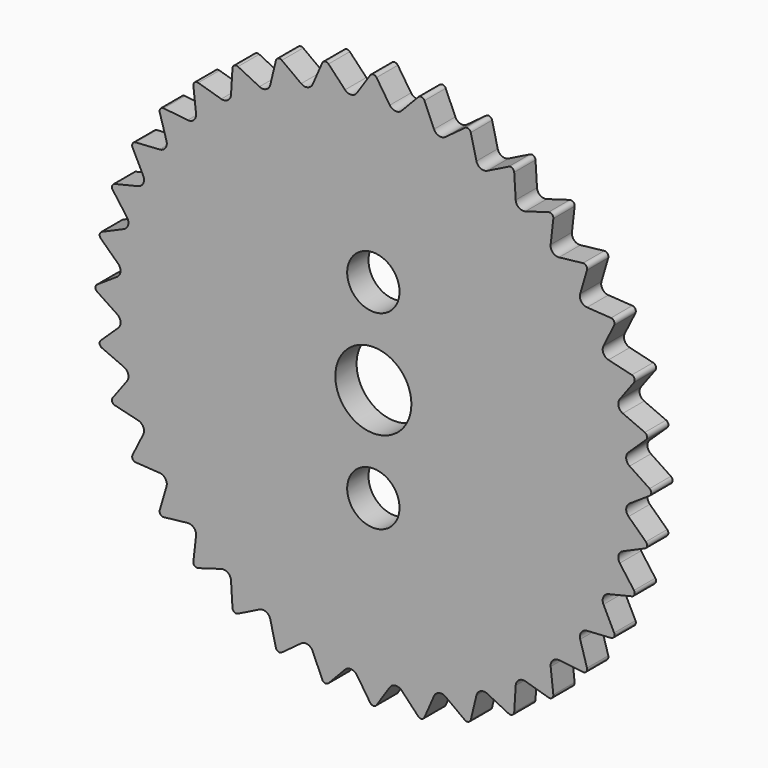
from build123d import *

# Parameters (mm, degrees)
F0_R     = 14
F0_R_2   = 2.75
F0_R_3   = 4
F1_DEPTH = 2.8


with BuildPart() as f1:
    # F0 (on Front) → F1 (new body)
    with BuildSketch(Plane.XZ):
        with BuildLine():
            Line((-0.3332228444, 29.0481919981), (-1.729675552, 26.9452415104))
            ThreePointArc((-1.729675552, 26.9452415104), (-2.3263966465, 26.5908353469), (-2.9755941913, 26.8362377538))
            Line((-2.9755941913, 26.8362377538), (-4.7160051644, 28.6647482303))
            ThreePointArc((-4.7160051644, 28.6647482303), (-5.0752009107, 28.7828946558), (-5.3723260456, 28.549021151))
            Line((-5.3723260456, 28.549021151), (-6.3823899789, 26.2355277386))
            ThreePointArc((-6.3823899789, 26.2355277386), (-6.9085035547, 25.7828862705), (-7.5904520107, 25.9118284928))
            Line((-7.5904520107, 25.9118284928), (-9.6219397426, 27.4103405927))
            ThreePointArc((-9.6219397426, 27.4103405927), (-9.9961944099, 27.4643184217), (-10.2481938384, 27.1824027428))
            Line((-10.2481938384, 27.1824027428), (-10.8411787159, 24.7286607324))
            ThreePointArc((-10.8411787159, 24.7286607324), (-11.2806990783, 24.1915372415), (-11.9746777868, 24.2001014351))
            Line((-11.9746777868, 24.2001014351), (-14.2355165507, 25.3230836265))
            ThreePointArc((-14.2355165507, 25.3230836265), (-14.6134586003, 25.31125277), (-14.8126754474, 24.9898607821))
            Line((-14.8126754474, 24.9898607821), (-14.9705637235, 22.4704258831))
            ThreePointArc((-14.9705637235, 22.4704258831), (-15.3101362686, 21.865140595), (-15.9950590379, 21.7530665411))
            Line((-15.9950590379, 21.7530665411), (-18.4165543919, 22.4663975784))
            ThreePointArc((-18.4165543919, 22.4663975784), (-18.7867002459, 22.389117511), (-18.9270814084, 22.0380145471))
            Line((-18.9270814084, 22.0380145471), (-18.6450757279, 19.5294385139))
            ThreePointArc((-18.6450757279, 19.5294385139), (-18.8743827157, 18.8743827157), (-19.5294385139, 18.6450757279))
            Line((-19.5294385139, 18.6450757279), (-22.0380145471, 18.9270814084))
            ThreePointArc((-22.0380145471, 18.9270814084), (-22.389117511, 18.7867002459), (-22.4663975784, 18.4165543919))
            Line((-22.4663975784, 18.4165543919), (-21.7530665411, 15.9950590379))
            ThreePointArc((-21.7530665411, 15.9950590379), (-21.865140595, 15.3101362686), (-22.4704258831, 14.9705637235))
            Line((-22.4704258831, 14.9705637235), (-24.9898607821, 14.8126754474))
            ThreePointArc((-24.9898607821, 14.8126754474), (-25.31125277, 14.6134586003), (-25.3230836265, 14.2355165507))
            Line((-25.3230836265, 14.2355165507), (-24.2001014351, 11.9746777868))
            ThreePointArc((-24.2001014351, 11.9746777868), (-24.1915372415, 11.2806990783), (-24.7286607324, 10.8411787159))
            Line((-24.7286607324, 10.8411787159), (-27.1824027428, 10.2481938384))
            ThreePointArc((-27.1824027428, 10.2481938384), (-27.4643184217, 9.9961944099), (-27.4103405927, 9.6219397426))
            Line((-27.4103405927, 9.6219397426), (-25.9118284928, 7.5904520107))
            ThreePointArc((-25.9118284928, 7.5904520107), (-25.7828862705, 6.9085035547), (-26.2355277386, 6.3823899789))
            Line((-26.2355277386, 6.3823899789), (-28.549021151, 5.3723260456))
            ThreePointArc((-28.549021151, 5.3723260456), (-28.7828946558, 5.0752009107), (-28.6647482303, 4.7160051644))
            Line((-28.6647482303, 4.7160051644), (-26.8362377538, 2.9755941913))
            ThreePointArc((-26.8362377538, 2.9755941913), (-26.5908353469, 2.3263966465), (-26.9452415104, 1.729675552))
            Line((-26.9452415104, 1.729675552), (-29.0481919981, 0.3332228444))
            ThreePointArc((-29.0481919981, 0.3332228444), (-29.2269172006, 0), (-29.0481919981, -0.3332228444))
            Line((-29.0481919981, -0.3332228444), (-26.9452415104, -1.729675552))
            ThreePointArc((-26.9452415104, -1.729675552), (-26.5908353469, -2.3263966465), (-26.8362377538, -2.9755941913))
            Line((-26.8362377538, -2.9755941913), (-28.6647482303, -4.7160051644))
            ThreePointArc((-28.6647482303, -4.7160051644), (-28.7828946558, -5.0752009107), (-28.549021151, -5.3723260456))
            Line((-28.549021151, -5.3723260456), (-26.2355277386, -6.3823899789))
            ThreePointArc((-26.2355277386, -6.3823899789), (-25.7828862705, -6.9085035547), (-25.9118284928, -7.5904520107))
            Line((-25.9118284928, -7.5904520107), (-27.4103405927, -9.6219397426))
            ThreePointArc((-27.4103405927, -9.6219397426), (-27.4643184217, -9.9961944099), (-27.1824027428, -10.2481938384))
            Line((-27.1824027428, -10.2481938384), (-24.7286607324, -10.8411787159))
            ThreePointArc((-24.7286607324, -10.8411787159), (-24.1915372415, -11.2806990783), (-24.2001014351, -11.9746777868))
            Line((-24.2001014351, -11.9746777868), (-25.3230836265, -14.2355165507))
            ThreePointArc((-25.3230836265, -14.2355165507), (-25.31125277, -14.6134586003), (-24.9898607821, -14.8126754474))
            Line((-24.9898607821, -14.8126754474), (-22.4704258831, -14.9705637235))
            ThreePointArc((-22.4704258831, -14.9705637235), (-21.865140595, -15.3101362686), (-21.7530665411, -15.9950590379))
            Line((-21.7530665411, -15.9950590379), (-22.4663975784, -18.4165543919))
            ThreePointArc((-22.4663975784, -18.4165543919), (-22.389117511, -18.7867002459), (-22.0380145471, -18.9270814084))
            Line((-22.0380145471, -18.9270814084), (-19.5294385139, -18.6450757279))
            ThreePointArc((-19.5294385139, -18.6450757279), (-18.8743827157, -18.8743827157), (-18.6450757279, -19.5294385139))
            Line((-18.6450757279, -19.5294385139), (-18.9270814084, -22.0380145471))
            ThreePointArc((-18.9270814084, -22.0380145471), (-18.7867002459, -22.389117511), (-18.4165543919, -22.4663975784))
            Line((-18.4165543919, -22.4663975784), (-15.9950590379, -21.7530665411))
            ThreePointArc((-15.9950590379, -21.7530665411), (-15.3101362686, -21.865140595), (-14.9705637235, -22.4704258831))
            Line((-14.9705637235, -22.4704258831), (-14.8126754474, -24.9898607821))
            ThreePointArc((-14.8126754474, -24.9898607821), (-14.6134586003, -25.31125277), (-14.2355165507, -25.3230836265))
            Line((-14.2355165507, -25.3230836265), (-11.9746777868, -24.2001014351))
            ThreePointArc((-11.9746777868, -24.2001014351), (-11.2806990783, -24.1915372415), (-10.8411787159, -24.7286607324))
            Line((-10.8411787159, -24.7286607324), (-10.2481938384, -27.1824027428))
            ThreePointArc((-10.2481938384, -27.1824027428), (-9.9961944099, -27.4643184217), (-9.6219397426, -27.4103405927))
            Line((-9.6219397426, -27.4103405927), (-7.5904520107, -25.9118284928))
            ThreePointArc((-7.5904520107, -25.9118284928), (-6.9085035547, -25.7828862705), (-6.3823899789, -26.2355277386))
            Line((-6.3823899789, -26.2355277386), (-5.3723260456, -28.549021151))
            ThreePointArc((-5.3723260456, -28.549021151), (-5.0752009107, -28.7828946558), (-4.7160051644, -28.6647482303))
            Line((-4.7160051644, -28.6647482303), (-2.9755941913, -26.8362377538))
            ThreePointArc((-2.9755941913, -26.8362377538), (-2.3263966465, -26.5908353469), (-1.729675552, -26.9452415104))
            Line((-1.729675552, -26.9452415104), (-0.3332228444, -29.0481919981))
            ThreePointArc((-0.3332228444, -29.0481919981), (0, -29.2269172006), (0.3332228444, -29.0481919981))
            Line((0.3332228444, -29.0481919981), (1.729675552, -26.9452415104))
            ThreePointArc((1.729675552, -26.9452415104), (2.3263966465, -26.5908353469), (2.9755941913, -26.8362377538))
            Line((2.9755941913, -26.8362377538), (4.7160051644, -28.6647482303))
            ThreePointArc((4.7160051644, -28.6647482303), (5.0752009107, -28.7828946558), (5.3723260456, -28.549021151))
            Line((5.3723260456, -28.549021151), (6.3823899789, -26.2355277386))
            ThreePointArc((6.3823899789, -26.2355277386), (6.9085035547, -25.7828862705), (7.5904520107, -25.9118284928))
            Line((7.5904520107, -25.9118284928), (9.6219397426, -27.4103405927))
            ThreePointArc((9.6219397426, -27.4103405927), (9.9961944099, -27.4643184217), (10.2481938384, -27.1824027428))
            Line((10.2481938384, -27.1824027428), (10.8411787159, -24.7286607324))
            ThreePointArc((10.8411787159, -24.7286607324), (11.2806990783, -24.1915372415), (11.9746777868, -24.2001014351))
            Line((11.9746777868, -24.2001014351), (14.2355165507, -25.3230836265))
            ThreePointArc((14.2355165507, -25.3230836265), (14.6134586003, -25.31125277), (14.8126754474, -24.9898607821))
            Line((14.8126754474, -24.9898607821), (14.9705637235, -22.4704258831))
            ThreePointArc((14.9705637235, -22.4704258831), (15.3101362686, -21.865140595), (15.9950590379, -21.7530665411))
            Line((15.9950590379, -21.7530665411), (18.4165543919, -22.4663975784))
            ThreePointArc((18.4165543919, -22.4663975784), (18.7867002459, -22.389117511), (18.9270814084, -22.0380145471))
            Line((18.9270814084, -22.0380145471), (18.6450757279, -19.5294385139))
            ThreePointArc((18.6450757279, -19.5294385139), (18.8743827157, -18.8743827157), (19.5294385139, -18.6450757279))
            Line((19.5294385139, -18.6450757279), (22.0380145471, -18.9270814084))
            ThreePointArc((22.0380145471, -18.9270814084), (22.389117511, -18.7867002459), (22.4663975784, -18.4165543919))
            Line((22.4663975784, -18.4165543919), (21.7530665411, -15.9950590379))
            ThreePointArc((21.7530665411, -15.9950590379), (21.865140595, -15.3101362686), (22.4704258831, -14.9705637235))
            Line((22.4704258831, -14.9705637235), (24.9898607821, -14.8126754474))
            ThreePointArc((24.9898607821, -14.8126754474), (25.31125277, -14.6134586003), (25.3230836265, -14.2355165507))
            Line((25.3230836265, -14.2355165507), (24.2001014351, -11.9746777868))
            ThreePointArc((24.2001014351, -11.9746777868), (24.1915372415, -11.2806990783), (24.7286607324, -10.8411787159))
            Line((24.7286607324, -10.8411787159), (27.1824027428, -10.2481938384))
            ThreePointArc((27.1824027428, -10.2481938384), (27.4643184217, -9.9961944099), (27.4103405927, -9.6219397426))
            Line((27.4103405927, -9.6219397426), (25.9118284928, -7.5904520107))
            ThreePointArc((25.9118284928, -7.5904520107), (25.7828862705, -6.9085035547), (26.2355277386, -6.3823899789))
            Line((26.2355277386, -6.3823899789), (28.549021151, -5.3723260456))
            ThreePointArc((28.549021151, -5.3723260456), (28.7828946558, -5.0752009107), (28.6647482303, -4.7160051644))
            Line((28.6647482303, -4.7160051644), (26.8362377538, -2.9755941913))
            ThreePointArc((26.8362377538, -2.9755941913), (26.5908353469, -2.3263966465), (26.9452415104, -1.729675552))
            Line((26.9452415104, -1.729675552), (29.0481919981, -0.3332228444))
            ThreePointArc((29.0481919981, -0.3332228444), (29.2269172006, 0), (29.0481919981, 0.3332228444))
            Line((29.0481919981, 0.3332228444), (26.9452415104, 1.729675552))
            ThreePointArc((26.9452415104, 1.729675552), (26.5908353469, 2.3263966465), (26.8362377538, 2.9755941913))
            Line((26.8362377538, 2.9755941913), (28.6647482303, 4.7160051644))
            ThreePointArc((28.6647482303, 4.7160051644), (28.7828946558, 5.0752009107), (28.549021151, 5.3723260456))
            Line((28.549021151, 5.3723260456), (26.2355277386, 6.3823899789))
            ThreePointArc((26.2355277386, 6.3823899789), (25.7828862705, 6.9085035547), (25.9118284928, 7.5904520107))
            Line((25.9118284928, 7.5904520107), (27.4103405927, 9.6219397426))
            ThreePointArc((27.4103405927, 9.6219397426), (27.4643184217, 9.9961944099), (27.1824027428, 10.2481938384))
            Line((27.1824027428, 10.2481938384), (24.7286607324, 10.8411787159))
            ThreePointArc((24.7286607324, 10.8411787159), (24.1915372415, 11.2806990783), (24.2001014351, 11.9746777868))
            Line((24.2001014351, 11.9746777868), (25.3230836265, 14.2355165507))
            ThreePointArc((25.3230836265, 14.2355165507), (25.31125277, 14.6134586003), (24.9898607821, 14.8126754474))
            Line((24.9898607821, 14.8126754474), (22.4704258831, 14.9705637235))
            ThreePointArc((22.4704258831, 14.9705637235), (21.865140595, 15.3101362686), (21.7530665411, 15.9950590379))
            Line((21.7530665411, 15.9950590379), (22.4663975784, 18.4165543919))
            ThreePointArc((22.4663975784, 18.4165543919), (22.389117511, 18.7867002459), (22.0380145471, 18.9270814084))
            Line((22.0380145471, 18.9270814084), (19.5294385139, 18.6450757279))
            ThreePointArc((19.5294385139, 18.6450757279), (18.8743827157, 18.8743827157), (18.6450757279, 19.5294385139))
            Line((18.6450757279, 19.5294385139), (18.9270814084, 22.0380145471))
            ThreePointArc((18.9270814084, 22.0380145471), (18.7867002459, 22.389117511), (18.4165543919, 22.4663975784))
            Line((18.4165543919, 22.4663975784), (15.9950590379, 21.7530665411))
            ThreePointArc((15.9950590379, 21.7530665411), (15.3101362686, 21.865140595), (14.9705637235, 22.4704258831))
            Line((14.9705637235, 22.4704258831), (14.8126754474, 24.9898607821))
            ThreePointArc((14.8126754474, 24.9898607821), (14.6134586003, 25.31125277), (14.2355165507, 25.3230836265))
            Line((14.2355165507, 25.3230836265), (11.9746777868, 24.2001014351))
            ThreePointArc((11.9746777868, 24.2001014351), (11.2806990783, 24.1915372415), (10.8411787159, 24.7286607324))
            Line((10.8411787159, 24.7286607324), (10.2481938384, 27.1824027428))
            ThreePointArc((10.2481938384, 27.1824027428), (9.9961944099, 27.4643184217), (9.6219397426, 27.4103405927))
            Line((9.6219397426, 27.4103405927), (7.5904520107, 25.9118284928))
            ThreePointArc((7.5904520107, 25.9118284928), (6.9085035547, 25.7828862705), (6.3823899789, 26.2355277386))
            Line((6.3823899789, 26.2355277386), (5.3723260456, 28.549021151))
            ThreePointArc((5.3723260456, 28.549021151), (5.0752009107, 28.7828946558), (4.7160051644, 28.6647482303))
            Line((4.7160051644, 28.6647482303), (2.9755941913, 26.8362377538))
            ThreePointArc((2.9755941913, 26.8362377538), (2.3263966465, 26.5908353469), (1.729675552, 26.9452415104))
            Line((1.729675552, 26.9452415104), (0.3332228444, 29.0481919981))
            ThreePointArc((0.3332228444, 29.0481919981), (0, 29.2269172006), (-0.3332228444, 29.0481919981))
        make_face()
        Circle(F0_R, mode=Mode.SUBTRACT)
        Circle(F0_R)
        with Locations((0, -10)):
            Circle(F0_R_2, mode=Mode.SUBTRACT)
        Circle(F0_R_3, mode=Mode.SUBTRACT)
        with Locations((0, 10)):
            Circle(F0_R_2, mode=Mode.SUBTRACT)
    extrude(amount=F1_DEPTH)


solid = f1.part
